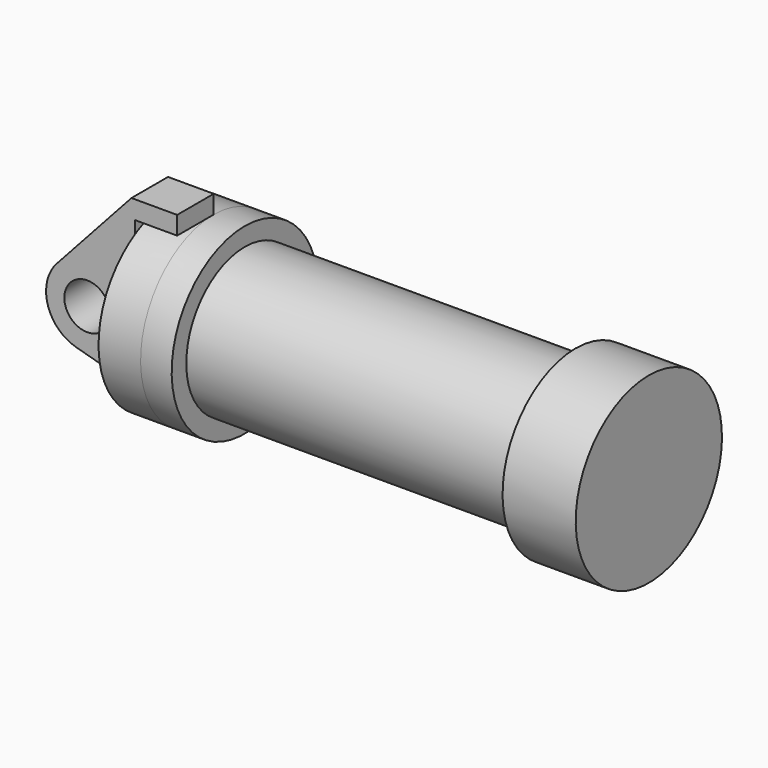
from build123d import *

# Parameters (mm, degrees)
F0_R     = 3.175
F2_DEPTH = 6.35
F0_W     = 5.842
F0_H     = 12.7


with BuildPart() as f1:
    # F0 (on Front) → F1 (revolve)
    with BuildSketch(Plane.XZ):
        Polygon((5.842, 12.7), (5.842, 0), (66.294, 0), (66.294, 12.7), (56.134, 12.7), (56.134, 10.16), (10.16, 10.16), (10.16, 12.7), align=None)
    revolve(axis=Axis((33.147, 0, 0), (-1, 0, 0)))


with BuildPart() as f2:
    # F0 (on Front) → F2 (new body)
    with BuildSketch(Plane.XZ):
        with BuildLine():
            Line((-0.9398, 0), (0, 0))
            Line((0, 0), (0, 12.7))
            Line((0, 12.7), (5.842, 12.7))
            Line((5.842, 12.7), (5.842, 15.24))
            Line((5.842, 15.24), (-0.508, 15.24))
            Line((-0.508, 15.24), (-10.88063, 3.847543))
            ThreePointArc((-10.88063, 3.847543), (-4.591961, 5.329721), (-0.9398, 0))
        make_face()
        with BuildLine():
            ThreePointArc((-8.182663, -5.506983), (-3.195791, -4.549339), (-0.9398, 0))
            ThreePointArc((-0.9398, 0), (-4.591961, 5.329721), (-10.88063, 3.847543))
            ThreePointArc((-10.88063, 3.847543), (-12.145978, -1.583727), (-8.182663, -5.506983))
        make_face()
        with Locations((-6.6548, 0)):
            Circle(F0_R, mode=Mode.SUBTRACT)
        with BuildLine():
            Line((5.842, 0), (0, 0))
            Line((0, 0), (-0.9398, 0))
            ThreePointArc((-0.9398, 0), (-3.195791, -4.549339), (-8.182663, -5.506983))
            Line((-8.182663, -5.506983), (5.842, -9.398))
            Line((5.842, -9.398), (5.842, 0))
        make_face()
    extrude(amount=F2_DEPTH)


with BuildPart() as f3:
    # F0 (on Front) → F3 (revolve)
    with BuildSketch(Plane.XZ):
        with Locations((2.921, 6.35)):
            Rectangle(F0_W, F0_H)
    revolve(axis=Axis((33.147, 0, 0), (-1, 0, 0)))


solid = Compound([f1.part, f2.part, f3.part])
